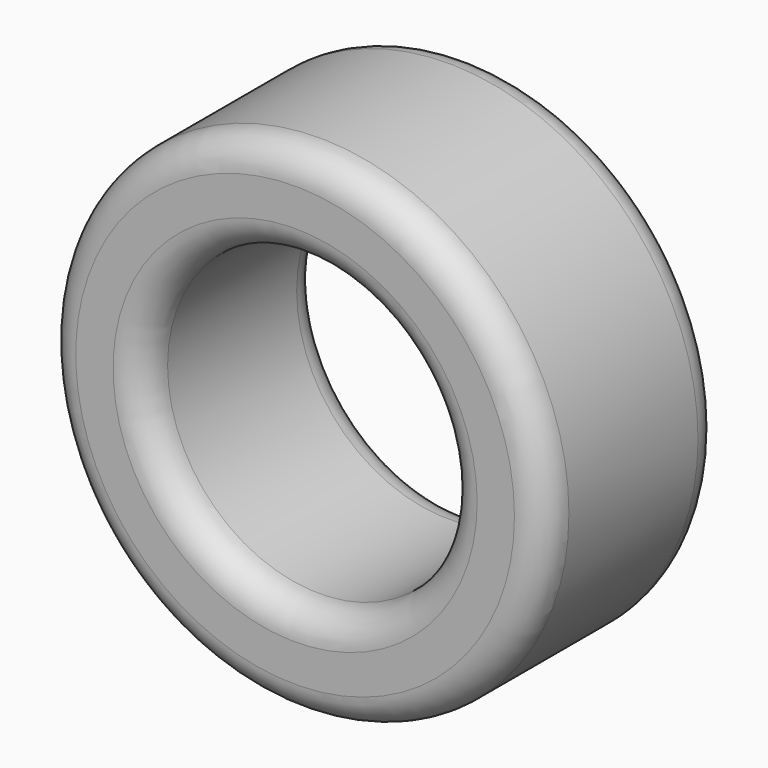
from build123d import *

# Parameters (mm, degrees)
F0_R     = 24.75
F0_R_2   = 15.05
F1_DEPTH = 22
F2_R     = 3


with BuildPart() as f1:
    # F0 (on Front) → F1 (new body)
    with BuildSketch(Plane.XZ):
        with Locations((-48.677672, 43.567631)):
            Circle(F0_R)
        with Locations((-48.677672, 43.567631)):
            Circle(F0_R_2, mode=Mode.SUBTRACT)
    extrude(amount=F1_DEPTH)

    # F2
    f2_edges = [f1.edges().sort_by_distance(p)[0] for p in [
        (-73.427672, -22, 43.567631),
        (-73.427672, 0, 43.567631),
        (-63.727672, -22, 43.567631),
        (-63.727672, 0, 43.567631),
    ]]
    fillet(f2_edges, radius=F2_R)


solid = f1.part
